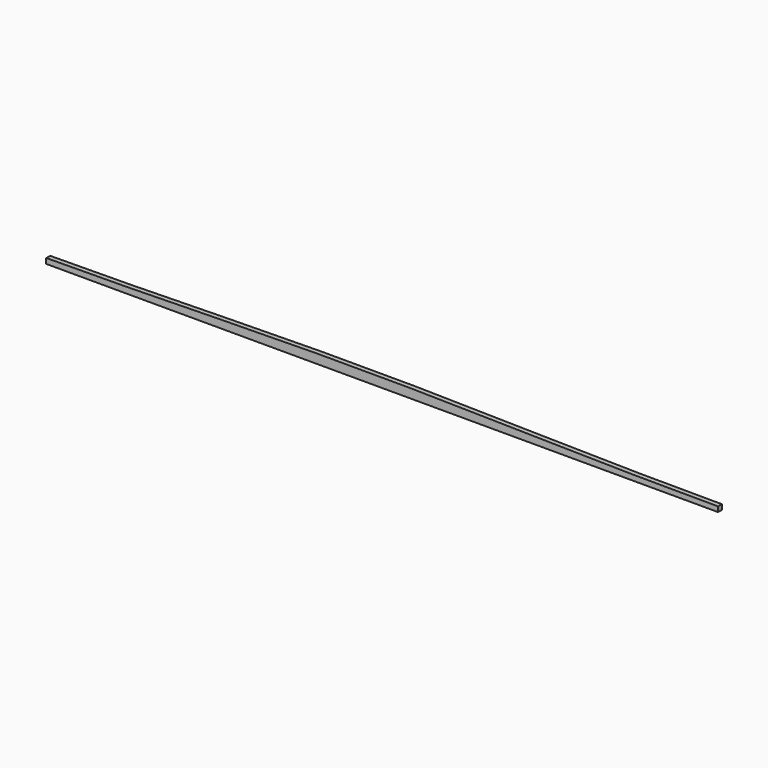
from build123d import *

# Parameters (mm, degrees)
F1_DEPTH = 10


with BuildPart() as f1:
    # F0 (on Front) → F1 (new body)
    with BuildSketch(Plane.XZ):
        with BuildLine():
            Line((-5.8953024867, 14.1072854735), (-6.8953024867, 13.6620854735))
            Line((-6.8953024867, 13.6620854735), (-6.8953024867, 3.1620854735))
            Line((-6.8953024867, 3.1620854735), (1393.1046975133, 3.1620854735))
            Line((1393.1046975133, 3.1620854735), (1393.1046975133, 13.6621054735))
            add(Edge.make_bspline(
                [(-5.8953024867, 14.1072854735), (29.9906654198, 14.2420551234), (91.591565835, 14.4733972076), (141.9002138501, 15.3408660653), (193.4278682402, 16.1882563098), (243.0191203382, 17.1499881461), (293.1252693824, 18.1582921744), (343.1079926995, 19.1678760959), (393.0695156789, 20.1267882811), (443.2395433834, 20.9873568341), (492.5972873247, 21.7064463935), (544.9962097011, 22.2477096191), (586.023262229, 22.5851773746), (643.0844953953, 22.6620840324), (642.9761456542, 22.66208707), (700.1950132061, 22.5890604831), (741.2053200817, 22.2538505921), (793.6143250533, 21.7154870366), (842.968842733, 20.998633511), (893.1417021241, 20.1398409863), (943.0951335833, 19.1819084233), (993.1073968367, 18.172929813), (1043.1034800141, 17.1633848487), (1093.1054479308, 16.2039114515), (1143.100338967, 15.3423688671), (1193.1181557235, 14.6220368337), (1243.1012581223, 14.0800032937), (1293.3987452877, 13.7363492657), (1343.36311001, 13.6438965406), (1376.5775516171, 13.6560553712), (1393.1046975133, 13.6621054735)],
                knots=[0, 0, 0, 0, 0.0512402091, 0.087656619, 0.1240738299, 0.1604916834, 0.1969098944, 0.2333281066, 0.2697459638, 0.30616318, 0.3425795957, 0.3789952102, 0.4154101809, 0.4517706311, 0.4537559883, 0.4901705977, 0.5265855611, 0.563001165, 0.5994175689, 0.6358347744, 0.6722526244, 0.708670834, 0.7450890475, 0.7815069084, 0.8179241305, 0.8543405516, 0.8907561713, 0.9272789243, 0.9636935376, 1, 1, 1, 1], degree=3))
        make_face()
    extrude(amount=F1_DEPTH)


solid = f1.part
